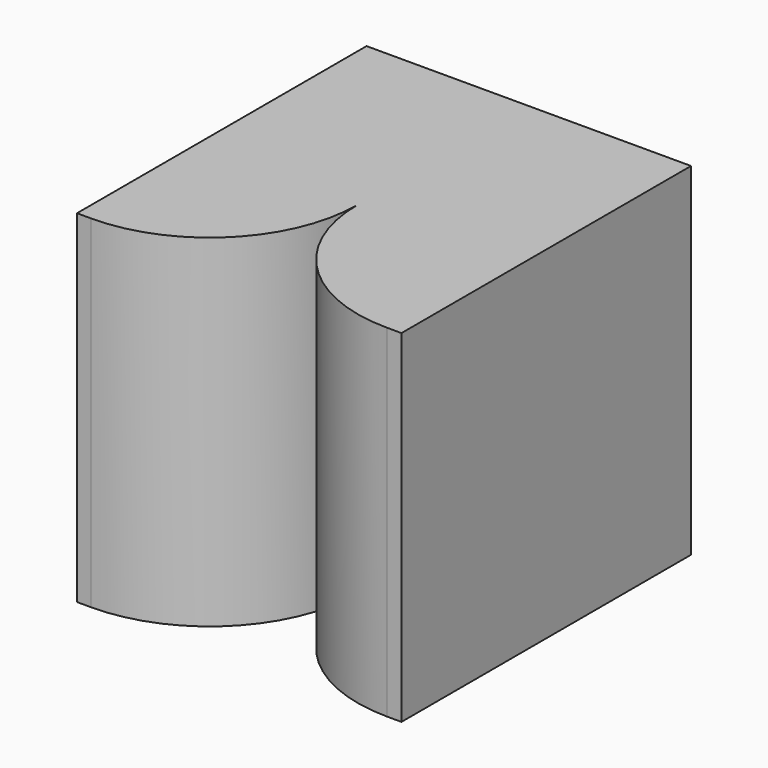
from build123d import *

# Parameters (mm, degrees)
F0_W     = 1155.7
F0_H     = 1219.2
F1_DEPTH = 1289.05
F3_DEPTH = 1219.2


with BuildPart() as f1:
    # F0 (on Front) → F1 (new body)
    with BuildSketch(Plane.XZ):
        with Locations((-577.85, 609.6)):
            Rectangle(F0_W, F0_H)
    extrude(amount=F1_DEPTH)

    # F2 (on face) → F3 (cut, through all)
    with BuildSketch(Plane.XY.offset(1219.2)):
        with BuildLine():
            ThreePointArc((-577.85, -762), (-732.219371, -1134.680629), (-1104.9, -1289.05))
            Line((-1104.9, -1289.05), (-50.8, -1289.05))
            ThreePointArc((-50.8, -1289.05), (-423.480629, -1134.680629), (-577.85, -762))
        make_face()
    extrude(amount=-F3_DEPTH, mode=Mode.SUBTRACT)


solid = f1.part
